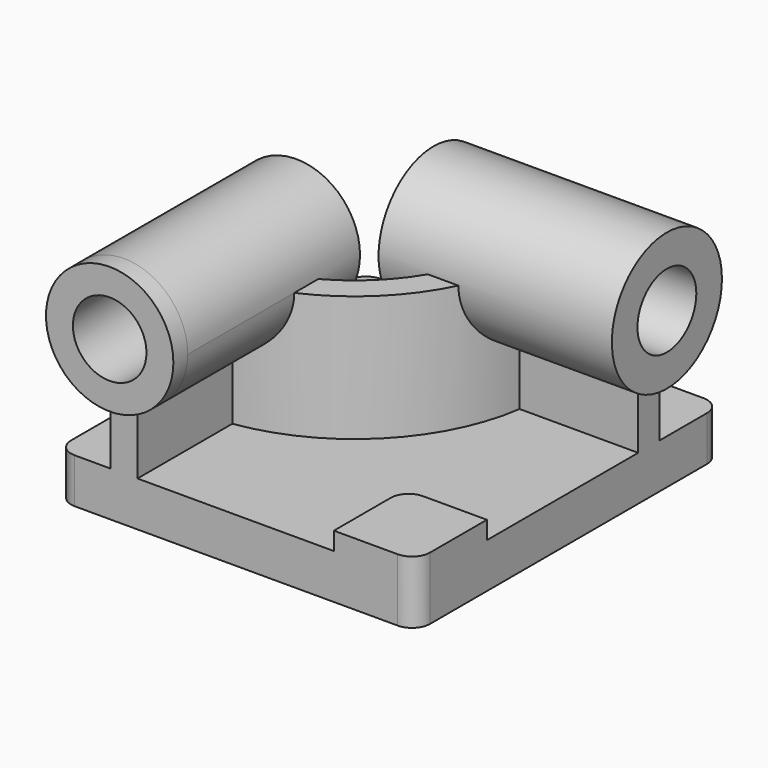
from build123d import *

# Parameters (mm, degrees)
F2_DEPTH      = 25
F4_DEPTH      = 70
F5_R          = 35.5
F6_DEPTH      = 10
F6_DEPTH_BACK = 120
F7_R          = 38.3333333333
F8_DEPTH      = 10
F8_DEPTH_BACK = 120
F9_R          = 20.5
F10_DEPTH     = 223.001
F11_R         = 20.5
F12_DEPTH     = 210.001
F14_DEPTH     = 10


with BuildPart() as f2:
    # F1 (on Top) → F2 (new body)
    with BuildSketch(Plane.XY):
        with BuildLine():
            ThreePointArc((0, 10), (2.9289321881, 2.9289321881), (10, 0))
            Line((10, 0), (190, 0))
            ThreePointArc((190, 0), (197.0710678119, 2.9289321881), (200, 10))
            Line((200, 10), (200, 203))
            ThreePointArc((200, 203), (197.0710678119, 210.0710678119), (190, 213))
            Line((190, 213), (10, 213))
            ThreePointArc((10, 213), (2.9289321881, 210.0710678119), (0, 203))
            Line((0, 203), (0, 10))
        make_face()
    extrude(amount=F2_DEPTH)

    # F3 (on face) → F4 (join)
    with BuildSketch(Plane.XY.offset(25)):
        with BuildLine():
            Line((30, 80), (30, 0))
            Line((30, 0), (45, 0))
            Line((45, 0), (45, 66.0769515459))
            ThreePointArc((45, 66.0769515459), (104.2462120246, 95.7537879754), (133.9230484541, 155))
            Line((133.9230484541, 155), (200, 155))
            Line((200, 155), (200, 170))
            Line((200, 170), (120, 170))
            ThreePointArc((120, 170), (93.6396103068, 106.3603896932), (30, 80))
        make_face()
    extrude(amount=F4_DEPTH)

    # F5 (on face) → F6 (join, two sides)
    with BuildSketch(Plane.XZ) as f6_sk:
        with Locations((37.5, 95)):
            Circle(F5_R)
    extrude(amount=F6_DEPTH)
    extrude(f6_sk.sketch, amount=-F6_DEPTH_BACK)

    # F7 (on face) → F8 (join, two sides)
    with BuildSketch(Plane.YZ.offset(200)) as f8_sk:
        with Locations((162.5, 95)):
            Circle(F7_R)
    extrude(amount=F8_DEPTH)
    extrude(f8_sk.sketch, amount=-F8_DEPTH_BACK)

    # F9 (on face) → F10 (cut, through all)
    with BuildSketch(Plane.XZ.offset(10)):
        with Locations((37.5, 95)):
            Circle(F9_R)
    extrude(amount=-F10_DEPTH, mode=Mode.SUBTRACT)

    # F11 (on face) → F12 (cut, through all)
    with BuildSketch(Plane.YZ.offset(210)):
        with Locations((162.5, 95)):
            Circle(F11_R)
    extrude(amount=-F12_DEPTH, mode=Mode.SUBTRACT)

    # F13 (on face) → F14 (join)
    with BuildSketch(Plane.XY.offset(25)):
        with BuildLine():
            Line((200, 10), (200, 49.6179956198))
            Line((200, 49.6179956198), (164.4239968061, 49.6179956198))
            ThreePointArc((164.4239968061, 49.6179956198), (157.3529289943, 46.6890634316), (154.4239968061, 39.6179956198))
            Line((154.4239968061, 39.6179956198), (154.4239968061, 0))
            Line((154.4239968061, 0), (190, 0))
            ThreePointArc((190, 0), (197.0710678119, 2.9289321881), (200, 10))
        make_face()
    extrude(amount=F14_DEPTH)


solid = f2.part
